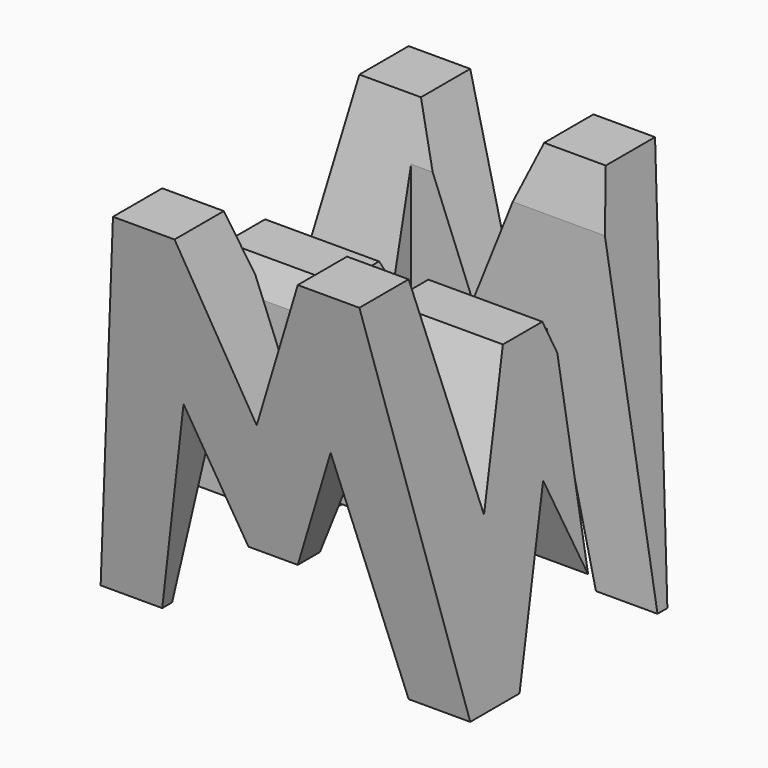
from build123d import *

# Parameters (mm, degrees)
F0_W      = 38.1
F0_H      = 38.1
F1_DEPTH  = 38.1
F6_DEPTH  = 38.1
F8_DEPTH  = 38.1
F9_W      = 25.4
F9_H      = 7.62
F10_DEPTH = 38.1


with BuildPart() as f1:
    # F0 (on Front) → F1 (new body)
    with BuildSketch(Plane.XZ):
        with Locations((19.05, 19.05)):
            Rectangle(F0_W, F0_H)
    extrude(amount=F1_DEPTH)

    # F5 (on offset) → F6 (cut)
    with BuildSketch(Plane.YZ.offset(38.1)):
        Polygon((-6.35, 38.1), (-31.75, 38.1), (-26.67, 15.875), (-21.59, 28.575), (-16.51, 28.575), (-11.43, 15.875), align=None)
        Polygon((-19.05, 15.875), (-25.4, 0), (-12.7, 0), align=None)
        Polygon((-31.75, 0), (-38.1, 38.1), (-38.1, 0), align=None)
        Polygon((0, 0), (0, 38.1), (-6.35, 0), align=None)
    extrude(amount=-F6_DEPTH, mode=Mode.SUBTRACT)

    # F7 (on offset) → F8 (cut)
    with BuildSketch(Plane.XZ.offset(38.1)):
        Polygon((0, 38.1), (0, 0), (6.35, 38.1), align=None)
        Polygon((25.4, 38.1), (12.7, 38.1), (19.05, 22.225), align=None)
        Polygon((31.75, 38.1), (38.1, 0), (38.1, 38.1), align=None)
        Polygon((11.43, 21.636641), (6.35, 0), (31.75, 0), (26.67, 22.225), (21.59, 9.525), (16.51, 9.525), align=None)
    extrude(amount=-F8_DEPTH, mode=Mode.SUBTRACT)

    # F9 (on offset) → F10 (cut)
    with BuildSketch(Plane.XY.offset(38.1)):
        with Locations((25.4, -11.43)):
            Rectangle(F9_W, F9_H)
        with Locations((12.7, -26.67)):
            Rectangle(F9_W, F9_H)
    extrude(amount=-F10_DEPTH, mode=Mode.SUBTRACT)


solid = f1.part
